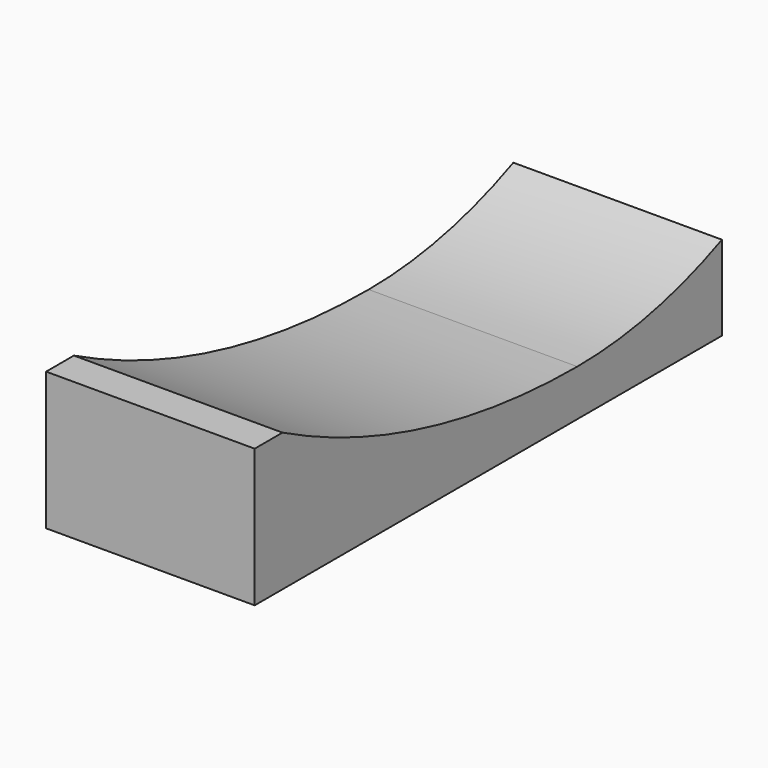
from build123d import *

# Parameters (mm, degrees)
F1_DEPTH = 381


with BuildPart() as f1:
    # F0 (on Right) → F1 (new body)
    with BuildSketch(Plane.YZ):
        with BuildLine():
            Line((4.474148, 167.432852), (-59.025852, 167.432852))
            Line((-59.025852, 167.432852), (-59.025852, 0))
            Line((-59.025852, 0), (-59.025852, -84.542013))
            Line((-59.025852, -84.542013), (1007.774148, -84.542013))
            Line((1007.774148, -84.542013), (1007.774148, 0))
            Line((1007.774148, 0), (1007.774148, 69.85))
            ThreePointArc((1007.774148, 69.85), (846.327713, 17.653603), (677.574148, 0))
            ThreePointArc((677.574148, 0), (330.768233, 42.486428), (4.474148, 167.432852))
        make_face()
    extrude(amount=F1_DEPTH)


solid = f1.part
